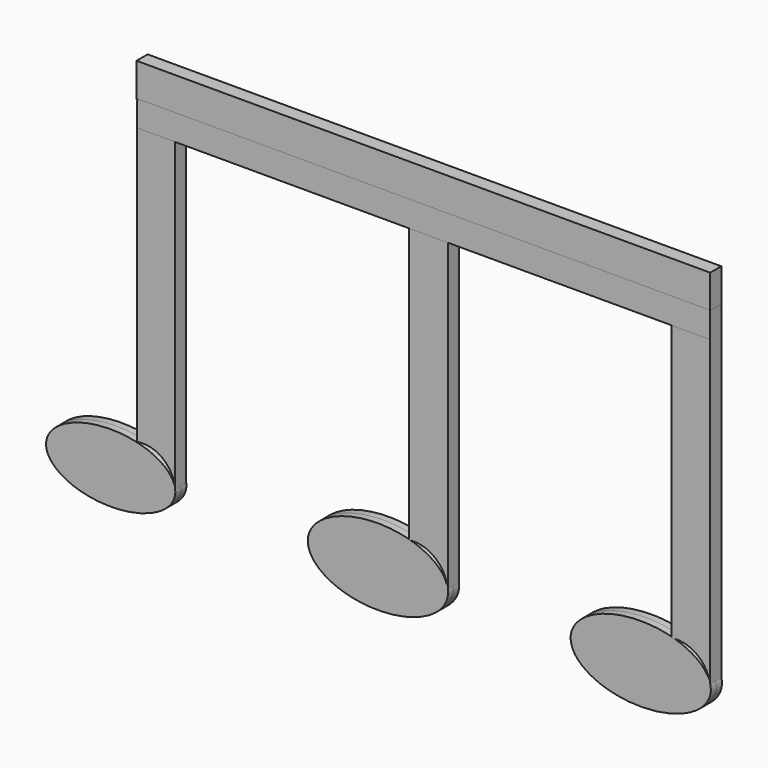
from build123d import *

# Parameters (mm, degrees)
F8_DEPTH = 1.5875
F6_W     = 131.3017867506
F6_H     = 7.7980235219
F7_W     = 131.0581378639
F7_H     = 5.9141740203


with BuildPart() as f8:
    # F0 (on Front) → F8 (new body, symmetric)
    with BuildSketch(Plane.XZ):
        with BuildLine():
            add(Edge.make_bspline(
                [(-46.3673062623, 0), (-46.3673062623, 13.5182651888), (-68.5484204441, 6.7591325944), (-90.729534626, 0), (-68.5484204441, -6.7591325944), (-46.3673062623, -13.5182651888), (-46.3673062623, 0)],
                knots=[0, 0, 0, 2.0943951024, 2.0943951024, 4.1887902048, 4.1887902048, 6.2831853072, 6.2831853072, 6.2831853072], degree=2, weights=[1, 0.5, 1, 0.5, 1, 0.5, 1]))
        make_face()
    extrude(amount=F8_DEPTH, both=True)


with BuildPart() as f8b:
    # F1 (on Front) → F8, piece 2 (new body, symmetric)
    with BuildSketch(Plane.XZ):
        with BuildLine():
            add(Edge.make_bspline(
                [(76.1927515268, 0), (76.1927515268, 14.9627357177), (52.1318838, 7.4813678588), (28.0710160732, 0), (52.1318838, -7.4813678588), (76.1927515268, -14.9627357177), (76.1927515268, 0)],
                knots=[0, 0, 0, 2.0943951024, 2.0943951024, 4.1887902048, 4.1887902048, 6.2831853072, 6.2831853072, 6.2831853072], degree=2, weights=[1, 0.5, 1, 0.5, 1, 0.5, 1]))
        make_face()
    extrude(amount=F8_DEPTH, both=True)


with BuildPart() as f8c:
    # F2 (on Front) → F8, piece 3 (new body, symmetric)
    with BuildSketch(Plane.XZ):
        with BuildLine():
            add(Edge.make_bspline(
                [(-16.0405859351, 0), (-16.0405859351, -15.1629167296), (8.0202929676, -7.5814583648), (32.0811718702, 0), (8.0202929676, 7.5814583648), (-16.0405859351, 15.1629167296), (-16.0405859351, 0)],
                knots=[0, 0, 0, 2.0943951024, 2.0943951024, 4.1887902048, 4.1887902048, 6.2831853072, 6.2831853072, 6.2831853072], degree=2, weights=[1, 0.5, 1, 0.5, 1, 0.5, 1]))
        make_face()
    extrude(amount=F8_DEPTH, both=True)


with BuildPart() as f8d:
    # F3 (on Front) → F8, piece 4 (new body, symmetric)
    with BuildSketch(Plane.XZ):
        with BuildLine():
            ThreePointArc((-55.0922565162, 7.2164293379), (-49.0569604108, 5.6457103523), (-46.4078262448, 0))
            Line((-46.4078262448, 0), (-46.4078262448, 75.9797468781))
            Line((-46.4078262448, 75.9797468781), (-55.0922565162, 75.9797468781))
            Line((-55.0922565162, 75.9797468781), (-55.0922565162, 7.2164293379))
        make_face()
    extrude(amount=F8_DEPTH, both=True)


with BuildPart() as f8e:
    # F6 (on Front) → F8, piece 5 (new body, symmetric)
    with BuildSketch(Plane.XZ):
        with Locations((10.4054976255, 80.0664834678)):
            Rectangle(F6_W, F6_H)
    extrude(amount=F8_DEPTH, both=True)


with BuildPart() as f8f:
    # F4 (on Front) → F8, piece 6 (new body, symmetric)
    with BuildSketch(Plane.XZ):
        with BuildLine():
            ThreePointArc((7.1387621574, 7.6713589951), (13.3161757945, 5.8567088733), (15.9905645996, 0))
            Line((15.9905645996, 0), (15.9905645996, 76.1674717069))
            Line((15.9905645996, 76.1674717069), (7.1387621574, 76.1674717069))
            Line((7.1387621574, 76.1674717069), (7.1387621574, 7.6713589951))
        make_face()
    extrude(amount=F8_DEPTH, both=True)


with BuildPart() as f8g:
    # F5 (on Front) → F8, piece 7 (new body, symmetric)
    with BuildSketch(Plane.XZ):
        with BuildLine():
            ThreePointArc((67.2045871615, 7.4606025591), (73.3649925249, 5.7882428628), (76.0563910007, 0))
            Line((76.0563910007, 0), (76.0563910007, 76.3782337308))
            Line((76.0563910007, 76.3782337308), (67.2045871615, 76.3782337308))
            Line((67.2045871615, 76.3782337308), (67.2045871615, 7.4606025591))
        make_face()
    extrude(amount=F8_DEPTH, both=True)


with BuildPart() as f8h:
    # F7 (on Front) → F8, piece 8 (new body, symmetric)
    with BuildSketch(Plane.XZ):
        with Locations((10.5116833001, 73.4396092594)):
            Rectangle(F7_W, F7_H)
    extrude(amount=F8_DEPTH, both=True)


solid = Compound([f8.part, f8b.part, f8c.part, f8d.part, f8e.part, f8f.part, f8g.part, f8h.part])
